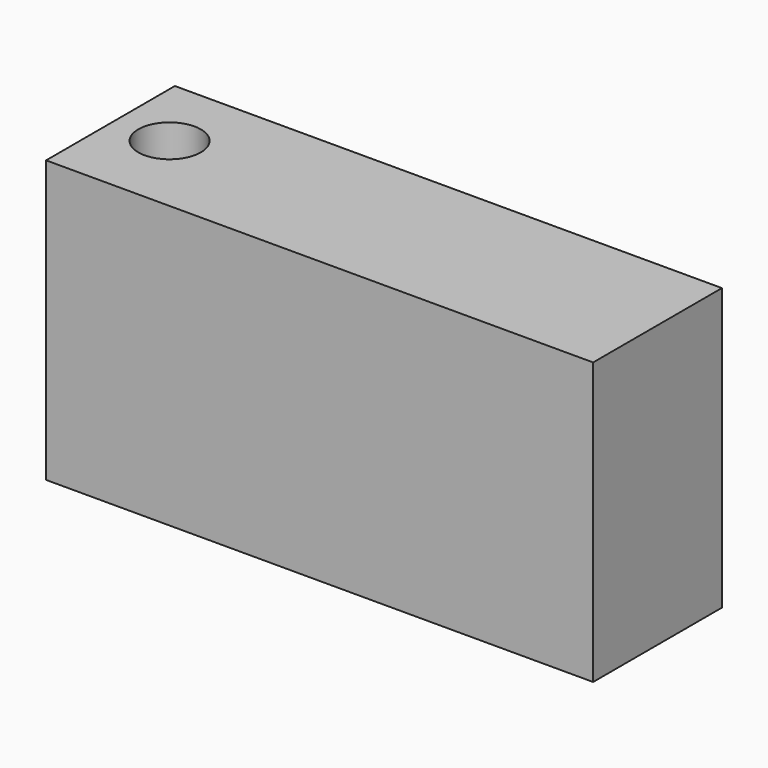
from build123d import *

# Parameters (mm, degrees)
CYLINDER003_R     = 2
CYLINDER003_DEPTH = 20
BOX007_W          = 36
BOX007_H          = 10
BOX007_DEPTH      = 10
BOX007_ROLL_ANGLE = 45
BOX006_W          = 9.5
BOX006_H          = 10
BOX006_DEPTH      = 15
BOX004_W          = 9.5
BOX004_H          = 10
BOX004_DEPTH      = 15
BOX001_W          = 35
BOX001_H          = 10.3
BOX001_DEPTH      = 18


with BuildPart() as zylinder003:
    # Cylinder003 → Cylinder003 (new body)
    with BuildSketch(Plane(origin=(6, -4.5, -12), x_dir=(1, 0, 0), z_dir=(0, 0, 1))):
        Circle(CYLINDER003_R)
    extrude(amount=CYLINDER003_DEPTH)


with BuildPart() as obj1:
    # Box007 → Box007 (new body)
    with BuildSketch(Plane.XY):
        with Locations((18, 5)):
            Rectangle(BOX007_W, BOX007_H)
    extrude(amount=BOX007_DEPTH)


with BuildPart() as obj1_1:
    # Box007 roll: moved
    add(obj1.part.rotate(Axis((0, 0, 0), (1, 0, 0)), BOX007_ROLL_ANGLE))


with BuildPart() as obj1_2:
    # Box007 placement: moved
    add(obj1_1.part.moved(Location((0, -10, -2))))


with BuildPart() as obj2:
    # Box006 → Box006 (new body)
    with BuildSketch(Plane(origin=(21, -8.8, -11), x_dir=(1, 0, 0), z_dir=(0, 0, 1))):
        with Locations((4.75, 5)):
            Rectangle(BOX006_W, BOX006_H)
    extrude(amount=BOX006_DEPTH)


with BuildPart() as cut001:
    # Box004 → Box004 (new body)
    with BuildSketch(Plane(origin=(10, -8.8, -11), x_dir=(1, 0, 0), z_dir=(0, 0, 1))):
        with Locations((4.75, 5)):
            Rectangle(BOX004_W, BOX004_H)
    extrude(amount=BOX004_DEPTH)

    # Fusion007: union obj2
    add(obj2.part)

    # Cut001: cut obj1
    add(obj1_2.part, mode=Mode.SUBTRACT)


with BuildPart() as cut003:
    # Box001 → Box001 (new body)
    with BuildSketch(Plane(origin=(2.5, -10, -11), x_dir=(1, 0, 0), z_dir=(0, 0, 1))):
        with Locations((17.5, 5.15)):
            Rectangle(BOX001_W, BOX001_H)
    extrude(amount=BOX001_DEPTH)

    # Cut002: cut Cut001
    add(cut001.part, mode=Mode.SUBTRACT)

    # Cut003: cut Zylinder003
    add(zylinder003.part, mode=Mode.SUBTRACT)


solid = cut003.part
